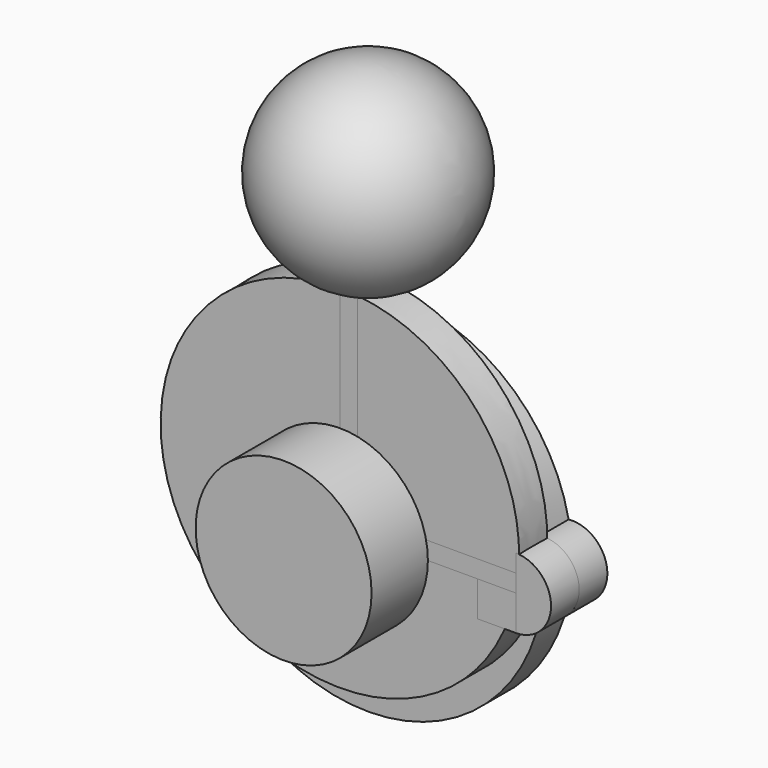
from build123d import *

# Parameters (mm, degrees)
F1_DEPTH  = 10
F2_R      = 25
F3_DEPTH  = 10
F4_R      = 25
F5_DEPTH  = 30
F7_DEPTH  = 10
F8_W      = 10.8778804541
F8_H      = 10
F9_DEPTH  = 10
F11_DEPTH = 10


with BuildPart() as f1:
    # F0 (on Front) → F1 (new body)
    with BuildSketch(Plane.XZ):
        with BuildLine():
            ThreePointArc((49, -9.9498743711), (60, 0), (49, 9.9498743711))
            ThreePointArc((49, 9.9498743711), (31.6425842927, 38.7136521046), (0, 50))
            Line((0, 50), (0, 0))
            Line((0, 0), (-50, 0))
            ThreePointArc((-50, 0), (-5, -49.7493718553), (49, -9.9498743711))
        make_face()
    extrude(amount=-F1_DEPTH)


with BuildPart() as f3:
    # F2 (on Front) → F3 (new body)
    with BuildSketch(Plane.XZ):
        with BuildLine():
            add(Edge.make_bspline(
                [(0, 60), (10.5955112347, 60), (31.0170440376, 53.4689164463), (50.3202952678, 28.6766808515), (52.462705512, -0.3242302637), (40.5772324961, -23.6909061622), (21.336302393, -37.1993713746), (7.0790546268, -40), (0, -40)],
                knots=[0, 0, 0, 0, 0.1812077606, 0.3591147159, 0.5308273571, 0.6944349973, 0.8498959386, 1, 1, 1, 1], degree=3))
            add(Edge.make_bspline(
                [(0, 60), (-10.5955112347, 60), (-31.0170440376, 53.4689164463), (-50.3202952678, 28.6766808515), (-52.462705512, -0.3242302637), (-40.5772324961, -23.6909061622), (-21.336302393, -37.1993713746), (-7.0790546268, -40), (0, -40)],
                knots=[0, 0, 0, 0, 0.1812077606, 0.3591147159, 0.5308273571, 0.6944349973, 0.8498959386, 1, 1, 1, 1], degree=3))
        make_face()
        Circle(F2_R, mode=Mode.SUBTRACT)
    extrude(amount=F3_DEPTH)


with BuildPart() as f5:
    # F4 (on Front) → F5 (new body, symmetric)
    with BuildSketch(Plane.XZ):
        Circle(F4_R)
    extrude(amount=F5_DEPTH, both=True)


with BuildPart() as f7:
    # F6 (on face) → F7 (new body)
    with BuildSketch(Plane.XZ):
        with BuildLine():
            Line((50, 10), (50, -10))
            ThreePointArc((50, -10), (60, 0), (50, 10))
        make_face()
    extrude(amount=F7_DEPTH)


with BuildPart() as f9:
    # F8 (on face) → F9 (new body)
    with BuildSketch(Plane(origin=(0, 0, 0), x_dir=(-1, 0, 0), z_dir=(0, 1, 0))):
        with Locations((-44.561059773, -5)):
            Rectangle(F8_W, F8_H)
    extrude(amount=-F9_DEPTH)


with BuildPart() as f11:
    # F10 (on Front) → F11 (new body)
    with BuildSketch(Plane.XZ):
        Polygon((0, 60), (0, 0), (50, 0), (50, 5), (5, 5), (5, 60), align=None)
    extrude(amount=F11_DEPTH)


with BuildPart() as f13:
    # F12 (on Front) → F13 (revolve)
    with BuildSketch(Plane.XZ):
        with BuildLine():
            Line((0, 60), (12.6095202129, 60))
            ThreePointArc((12.6095202129, 60), (27.2396769438, 91.4807406984), (0, 113))
            Line((0, 113), (0, 60))
        make_face()
    revolve(axis=Axis((0, 0, 86.5), (0, 0, 1)))


solid = Compound([f1.part, f3.part, f5.part, f7.part, f9.part, f11.part, f13.part])
